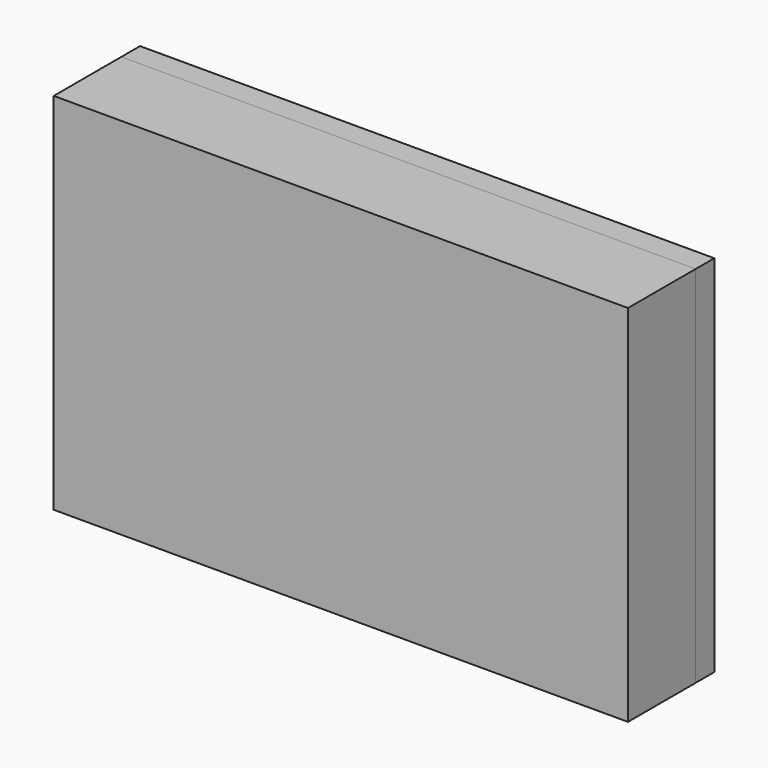
from build123d import *

# Parameters (mm, degrees)
F0_W     = 625.475
F0_H     = 396.875
F1_DEPTH = 25.4
F2_W     = 625.475
F2_H     = 396.875
F3_DEPTH = 92.075


with BuildPart() as f1:
    # F0 (on Front) → F1 (new body)
    with BuildSketch(Plane.XZ):
        Rectangle(F0_W, F0_H)
    extrude(amount=F1_DEPTH)


with BuildPart() as f3:
    # F2 (on face) → F3 (new body)
    with BuildSketch(Plane.XZ.offset(25.4)):
        Rectangle(F2_W, F2_H)
    extrude(amount=F3_DEPTH)


solid = Compound([f1.part, f3.part])
